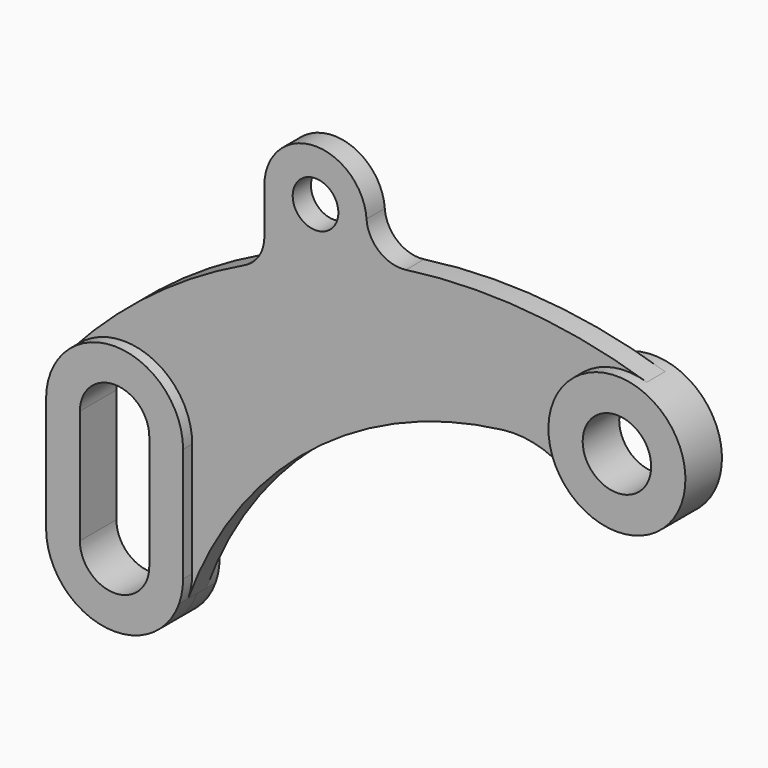
from build123d import *

# Parameters (mm, degrees)
F1_DEPTH = 6.35
F2_DEPTH = 3.175
F4_D     = 19.05
F6_DEPTH = 12.7
F7_R     = 9.652
F9_D     = 12.7


with BuildPart() as f1:
    # F0 (on Front) → F1 (new body, symmetric)
    with BuildSketch(Plane.XZ):
        with BuildLine():
            Line((19.05, -31.75), (19.05, 0))
            ThreePointArc((19.05, 0), (6.8053054878, 17.7929850564), (-14.1878285794, 12.7125143148))
            ThreePointArc((-14.1878285794, 12.7125143148), (-17.7929850564, 6.8053054878), (-19.05, 0))
            Line((-19.05, 0), (-19.05, -31.75))
            ThreePointArc((-19.05, -31.75), (-3.275991202, -50.516203176), (17.9232684141, -38.2043744356))
            ThreePointArc((17.9232684141, -38.2043744356), (18.766203176, -35.025991202), (19.05, -31.75))
        make_face()
    extrude(amount=F1_DEPTH, both=True)

    # F5 (on face) → F6 (cut, through all)
    with BuildSketch(Plane.XZ.offset(6.35)):
        with BuildLine():
            Line((9.652, -31.75), (9.652, 0))
            ThreePointArc((9.652, 0), (0, 9.652), (-9.652, 0))
            Line((-9.652, 0), (-9.652, -31.75))
            ThreePointArc((-9.652, -31.75), (0, -41.402), (9.652, -31.75))
        make_face()
    extrude(amount=-F6_DEPTH, mode=Mode.SUBTRACT)


with BuildPart() as f1b:
    # F0 (on Front) → F1, piece 2 (new body, symmetric)
    with BuildSketch(Plane.XZ):
        with BuildLine():
            ThreePointArc((145.4693142778, 56.2553714576), (123.3747519158, 47.917778516), (126.3677772571, 24.4928571429))
            ThreePointArc((126.3677772571, 24.4928571429), (147.0798257686, 20.5375209146), (158.75, 38.1))
            ThreePointArc((158.75, 38.1), (155.0754339287, 49.3471565964), (145.4693142778, 56.2553714576))
        make_face()
    extrude(amount=F1_DEPTH, both=True)

    # F4 (through all)
    with Locations(Plane.XZ.offset(6.35)):
        with Locations((139.7, 38.1)):
            Hole(F4_D / 2)


with BuildPart() as f2:
    # F0 (on Front) → F2 (new body, symmetric)
    with BuildSketch(Plane.XZ):
        with BuildLine():
            ThreePointArc((-14.1878285794, 12.7125143148), (6.8053054878, 17.7929850564), (19.05, 0))
            Line((19.05, 0), (19.05, -31.75))
            ThreePointArc((19.05, -31.75), (18.766203176, -35.025991202), (17.9232684141, -38.2043744356))
            ThreePointArc((17.9232684141, -38.2043744356), (51.8465590404, 9.110202113), (105.5595767458, 31.5683972734))
            ThreePointArc((105.5595767458, 31.5683972734), (116.7685886634, 30.3977628537), (126.3677772571, 24.4928571429))
            ThreePointArc((126.3677772571, 24.4928571429), (123.3747519158, 47.917778516), (145.4693142778, 56.2553714576))
            ThreePointArc((145.4693142778, 56.2553714576), (106.7647166675, 63.2302001437), (67.564, 60.0682507246))
            ThreePointArc((67.564, 60.0682507246), (64.9675106843, 59.4914343869), (62.3814834159, 58.8693919276))
            ThreePointArc((62.3814834159, 58.8693919276), (57.2947405008, 56.1868303981), (51.5615653408, 55.7376172755))
            ThreePointArc((51.5615653408, 55.7376172755), (45.2872454924, 53.5142711807), (39.116, 51.0190584665))
            ThreePointArc((39.116, 51.0190584665), (10.3772128751, 34.7696847804), (-14.1878285794, 12.7125143148))
        make_face()
        with BuildLine():
            Line((39.116, 69.85), (39.116, 51.0190584665))
            ThreePointArc((39.116, 51.0190584665), (45.2872454924, 53.5142711807), (51.5615653408, 55.7376172755))
            ThreePointArc((51.5615653408, 55.7376172755), (42.6718551146, 60.441872625), (39.116, 69.85))
        make_face()
        with BuildLine():
            ThreePointArc((39.116, 69.85), (42.6718551146, 60.441872625), (51.5615653408, 55.7376172755))
            ThreePointArc((51.5615653408, 55.7376172755), (56.9425804041, 57.4035026746), (62.3814834159, 58.8693919276))
            ThreePointArc((62.3814834159, 58.8693919276), (66.2032856632, 63.7789162462), (67.564, 69.85))
            ThreePointArc((67.564, 69.85), (53.34, 84.074), (39.116, 69.85))
        make_face()
        with BuildLine():
            ThreePointArc((62.3814834159, 58.8693919276), (56.9425804041, 57.4035026746), (51.5615653408, 55.7376172755))
            ThreePointArc((51.5615653408, 55.7376172755), (57.2947405008, 56.1868303981), (62.3814834159, 58.8693919276))
        make_face()
        with BuildLine():
            ThreePointArc((67.564, 69.85), (66.2032856632, 63.7789162462), (62.3814834159, 58.8693919276))
            ThreePointArc((62.3814834159, 58.8693919276), (64.9675106843, 59.4914343869), (67.564, 60.0682507246))
            Line((67.564, 60.0682507246), (67.564, 69.85))
        make_face()
    extrude(amount=F2_DEPTH, both=True)

    # F7
    f7_edges = [f2.edges().sort_by_distance(p)[0] for p in [
        (67.564, 0, 60.068251),
        (39.116, 0, 51.019058),
    ]]
    fillet(f7_edges, radius=F7_R)

    # F9 (through all)
    with Locations(Plane.XZ.offset(3.175)):
        with Locations((53.34, 69.85)):
            Hole(F9_D / 2)


solid = Compound([f1.part, f1b.part, f2.part])
